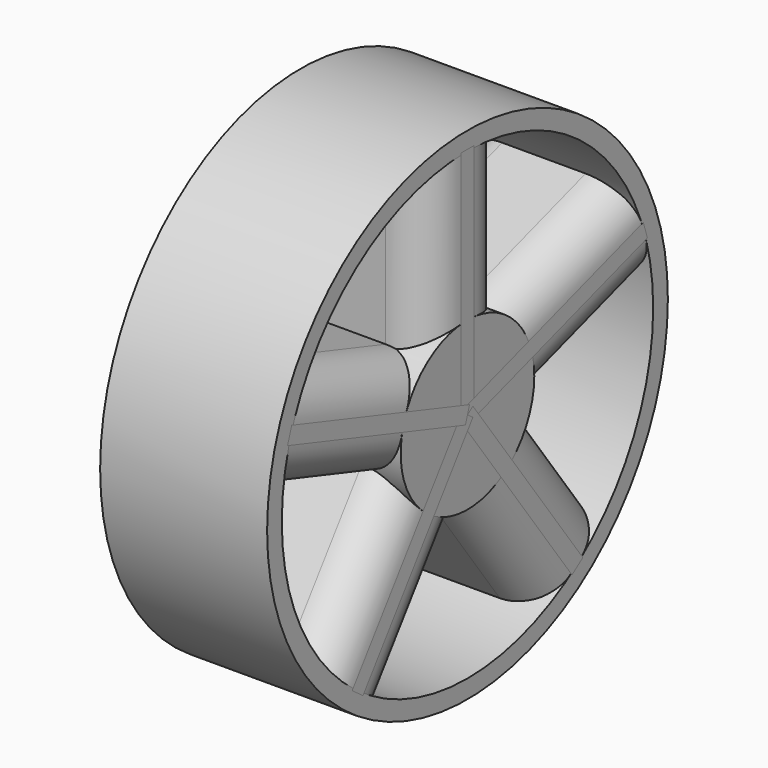
from build123d import *

# Parameters (mm, degrees)
F0_R     = 38.1
F0_R_2   = 35.306
F1_DEPTH = 25.4
F2_R     = 12.7
F3_DEPTH = 25.4
F4_W     = 25.4
F4_H     = 15.24
F5_DEPTH = 35.56
F6_R     = 6.35
F7_COUNT = 5


with BuildPart() as f1:
    # F0 (on Right) → F1 (new body)
    with BuildSketch(Plane.YZ):
        Circle(F0_R)
        Circle(F0_R_2, mode=Mode.SUBTRACT)
    extrude(amount=F1_DEPTH)


with BuildPart() as f3:
    # F2 (on Right) → F3 (new body)
    with BuildSketch(Plane.YZ):
        Circle(F2_R)
    extrude(amount=F3_DEPTH)


with BuildPart() as f5:
    # F4 (on Top) → F5 (new body)
    with BuildSketch(Plane.XY):
        with Locations((12.7, 0)):
            Rectangle(F4_W, F4_H)
    extrude(amount=F5_DEPTH)

    # F6
    f6_edges = [f5.edges().sort_by_distance(p)[0] for p in [
        (25.4, 7.62, 17.78),
        (25.4, -7.62, 17.78),
        (0, -7.62, 17.78),
        (0, 7.62, 17.78),
    ]]
    fillet(f6_edges, radius=F6_R)


with BuildPart() as f7_1:
    # F7: instance of F5
    add(f5.part.rotate(Axis((0, 0, 0), (-1, 0, 0)), 1 * 360 / F7_COUNT))


with BuildPart() as f7_2:
    # F7: instance of F5
    add(f5.part.rotate(Axis((0, 0, 0), (-1, 0, 0)), 2 * 360 / F7_COUNT))


with BuildPart() as f7_3:
    # F7: instance of F5
    add(f5.part.rotate(Axis((0, 0, 0), (-1, 0, 0)), 3 * 360 / F7_COUNT))


with BuildPart() as f7_4:
    # F7: instance of F5
    add(f5.part.rotate(Axis((0, 0, 0), (-1, 0, 0)), 4 * 360 / F7_COUNT))


solid = Compound([f1.part, f3.part, f5.part, f7_1.part, f7_2.part, f7_3.part, f7_4.part])
